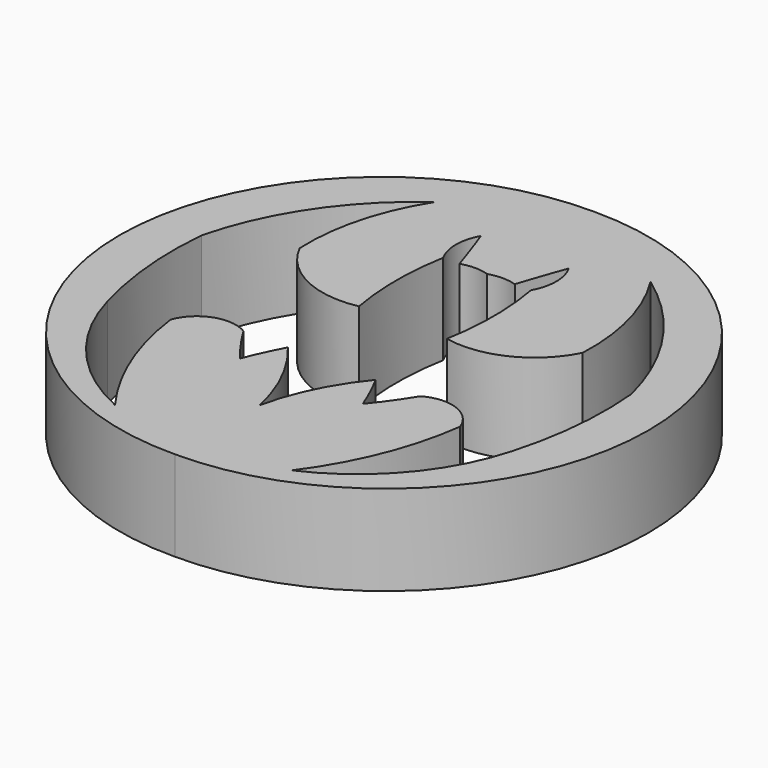
from build123d import *

# Parameters (mm, degrees)
F1_DEPTH = 25.4


with BuildPart() as f1:
    # F0 (on Top) → F1 (new body)
    with BuildSketch(Plane.XY):
        with BuildLine():
            ThreePointArc((0, 74.055061), (-74.663883, 0.152692), (0, -73.749676))
            ThreePointArc((0, -73.749676), (74.243208, 0.152692), (0, 74.055061))
        make_face()
        with BuildLine():
            ThreePointArc((-57.023406, -26.218485), (-60.507444, -7.590035), (-60.500612, 11.36142))
            ThreePointArc((-60.500612, 11.36142), (-49.402322, 36.234016), (-30.385477, 55.732161))
            ThreePointArc((-30.385477, 55.732161), (-37.869253, 38.596059), (-39.85231, 20.002501))
            ThreePointArc((-39.85231, 20.002501), (-28.383603, 8.629948), (-12.367958, 6.540619))
            ThreePointArc((-12.367958, 6.540619), (-13.701344, 21.364175), (-12.367958, 36.187731))
            ThreePointArc((-12.367958, 36.187731), (-14.11452, 42.835135), (-12.367958, 49.482539))
            ThreePointArc((-12.367958, 49.482539), (-10.020724, 42.85473), (-7.787234, 36.187731))
            ThreePointArc((-7.787234, 36.187731), (-3.893617, 36.798721), (0, 36.187731))
            ThreePointArc((0, 36.187731), (3.893617, 36.798721), (7.787234, 36.187731))
            ThreePointArc((7.787234, 36.187731), (10.020724, 42.85473), (12.367958, 49.482539))
            ThreePointArc((12.367958, 49.482539), (14.11452, 42.835135), (12.367958, 36.187731))
            ThreePointArc((12.367958, 36.187731), (13.701344, 21.364175), (12.367958, 6.540619))
            ThreePointArc((12.367958, 6.540619), (28.383603, 8.629948), (39.85231, 20.002501))
            ThreePointArc((39.85231, 20.002501), (37.869253, 38.596059), (30.385477, 55.732161))
            ThreePointArc((30.385477, 55.732161), (49.402322, 36.234016), (60.500612, 11.36142))
            ThreePointArc((60.500612, 11.36142), (60.507444, -7.590035), (57.023406, -26.218485))
            ThreePointArc((57.023406, -26.218485), (45.143136, -48.537797), (24.888607, -63.672081))
            ThreePointArc((24.888607, -63.672081), (35.339447, -44.987114), (40.768456, -24.277844))
            ThreePointArc((40.768456, -24.277844), (34.191606, -17.646196), (24.888607, -18.475592))
            ThreePointArc((24.888607, -18.475592), (21.283884, -23.958158), (17.282898, -29.158607))
            ThreePointArc((17.282898, -29.158607), (14.979822, -23.746067), (12.367958, -18.475592))
            ThreePointArc((12.367958, -18.475592), (4.65192, -30.401362), (0, -43.822274))
            ThreePointArc((0, -43.822274), (-4.65192, -30.401362), (-12.367958, -18.475592))
            ThreePointArc((-12.367958, -18.475592), (-14.979822, -23.746067), (-17.282898, -29.158607))
            ThreePointArc((-17.282898, -29.158607), (-21.283884, -23.958158), (-24.888607, -18.475592))
            ThreePointArc((-24.888607, -18.475592), (-34.191606, -17.646196), (-40.768456, -24.277844))
            ThreePointArc((-40.768456, -24.277844), (-35.339447, -44.987114), (-24.888607, -63.672081))
            ThreePointArc((-24.888607, -63.672081), (-45.143136, -48.537797), (-57.023406, -26.218485))
        make_face(mode=Mode.SUBTRACT)
    extrude(amount=F1_DEPTH)


solid = f1.part
